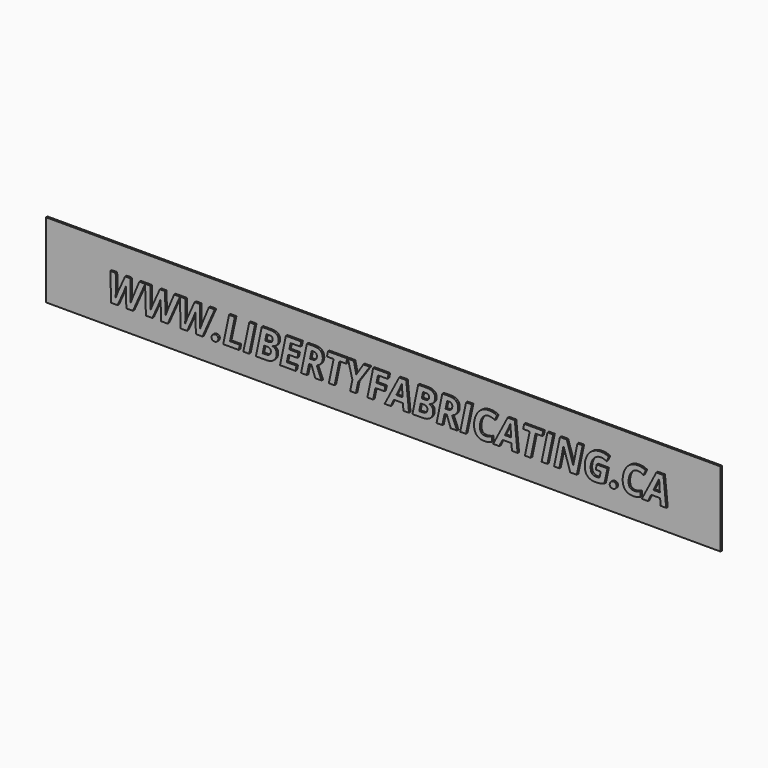
from build123d import *

# Parameters (mm, degrees)
F0_W     = 914.4
F0_H     = 101.6
F1_DEPTH = 2.54
F3_DEPTH = 2.54


with BuildPart() as f1:
    # F0 (on Front) → F1 (new body)
    with BuildSketch(Plane.XZ):
        with Locations((249.6377415955, -34.5557199445)):
            Rectangle(F0_W, F0_H)
    extrude(amount=F1_DEPTH)

    # F2 (on face) → F3 (join)
    with BuildSketch(Plane.XZ.offset(2.54)):
        with BuildLine():
            add(Edge.make_bspline(
                [(-97.2951464553, -29.1986000955), (-98.4817029673, -32.9560290501), (-100.2615377352, -36.8947374717)],
                knots=[0, 0, 0, 1, 1, 1], degree=2))
            Line((-97.2951464553, -29.1986000955), (-97.196266746, -29.1986000955))
            add(Edge.make_bspline(
                [(-97.2951464553, -33.2609081538), (-97.2951464553, -30.994914815), (-97.196266746, -29.1986000955)],
                knots=[0, 0, 0, 1, 1, 1], degree=2))
            Line((-97.2951464553, -33.2609081538), (-97.2457066007, -36.845297617))
            Line((-97.2457066007, -36.845297617), (-96.677148272, -55.4099630437))
            Line((-96.677148272, -55.4099630437), (-87.7697344566, -55.4099630437))
            Line((-87.7697344566, -55.4099630437), (-71.3010742969, -18.1966552943))
            Line((-71.3010742969, -18.1966552943), (-71.3145028289, -17.7615137164))
            Line((-71.3145028289, -17.7615137164), (-79.0683200355, -17.7615137164))
            Line((-79.0683200355, -17.7615137164), (-87.5637350621, -38.2625734508))
            add(Edge.make_bspline(
                [(-90.9338851551, -47.2441470482), (-89.8297284009, -43.9234368099), (-87.5637350621, -38.2625734508)],
                knots=[0, 0, 0, 1, 1, 1], degree=2))
            Line((-90.9338851551, -47.2441470482), (-91.0904446949, -47.2441470482))
            add(Edge.make_bspline(
                [(-90.8597253731, -40.2401676374), (-90.8597253731, -44.0058365677), (-91.0904446949, -47.2441470482)],
                knots=[0, 0, 0, 1, 1, 1], degree=2))
            Line((-90.8597253731, -40.2401676374), (-91.4035637744, -17.7615137164))
            Line((-91.4035637744, -17.7615137164), (-98.3498633549, -17.7615137164))
            Line((-98.3498633549, -17.7615137164), (-107.8505554263, -38.8558517068))
            add(Edge.make_bspline(
                [(-109.3996708725, -42.5968007097), (-108.2378342879, -39.5974495267), (-107.8505554263, -38.8558517068)],
                knots=[0, 0, 0, 1, 1, 1], degree=2))
            add(Edge.make_bspline(
                [(-111.12182581, -47.2441470482), (-110.5615074571, -45.5961518927), (-109.3996708725, -42.5968007097)],
                knots=[0, 0, 0, 1, 1, 1], degree=2))
            Line((-111.12182581, -47.2441470482), (-111.2783853498, -47.2441470482))
            add(Edge.make_bspline(
                [(-111.0188261128, -42.7657202132), (-111.12182581, -45.884551045), (-111.2783853498, -47.2441470482)],
                knots=[0, 0, 0, 1, 1, 1], degree=2))
            add(Edge.make_bspline(
                [(-110.9158264155, -38.3120133054), (-110.9158264155, -39.6468893814), (-111.0188261128, -42.7657202132)],
                knots=[0, 0, 0, 1, 1, 1], degree=2))
            Line((-110.9158264155, -38.3120133054), (-111.0723859553, -17.7615137164))
            Line((-111.0723859553, -17.7615137164), (-118.4636442277, -17.7615137164))
            Line((-118.4636442277, -17.7615137164), (-117.3018076431, -55.4099630437))
            Line((-117.3018076431, -55.4099630437), (-108.6003932221, -55.4099630437))
            Line((-108.6003932221, -55.4099630437), (-100.2615377352, -36.8947374717))
        make_face()
        Polygon((-71.3145028289, -17.7615137164), (-71.3010742969, -18.1966552943), (-71.1085034344, -17.7615137164), align=None)
        with BuildLine():
            Line((-71.1085034344, -17.7615137164), (-71.3010742969, -18.1966552943))
            Line((-71.3010742969, -18.1966552943), (-70.1526662443, -55.4099630437))
            Line((-70.1526662443, -55.4099630437), (-61.4512518232, -55.4099630437))
            Line((-61.4512518232, -55.4099630437), (-53.1123963364, -36.8947374717))
            add(Edge.make_bspline(
                [(-50.1460050565, -29.1986000955), (-51.3325615685, -32.9560290501), (-53.1123963364, -36.8947374717)],
                knots=[0, 0, 0, 1, 1, 1], degree=2))
            Line((-50.1460050565, -29.1986000955), (-50.0471253472, -29.1986000955))
            add(Edge.make_bspline(
                [(-50.1460050565, -33.2609081538), (-50.1460050565, -30.994914815), (-50.0471253472, -29.1986000955)],
                knots=[0, 0, 0, 1, 1, 1], degree=2))
            Line((-50.1460050565, -33.2609081538), (-50.0965652018, -36.845297617))
            Line((-50.0965652018, -36.845297617), (-49.5280068732, -55.4099630437))
            Line((-49.5280068732, -55.4099630437), (-40.6205930577, -55.4099630437))
            Line((-40.6205930577, -55.4099630437), (-24.1519328981, -18.1966552943))
            Line((-24.1519328981, -18.1966552943), (-24.16536143, -17.7615137164))
            Line((-24.16536143, -17.7615137164), (-31.9191786367, -17.7615137164))
            Line((-31.9191786367, -17.7615137164), (-40.4145936633, -38.2625734508))
            add(Edge.make_bspline(
                [(-43.7847437563, -47.2441470482), (-42.6805870021, -43.9234368099), (-40.4145936633, -38.2625734508)],
                knots=[0, 0, 0, 1, 1, 1], degree=2))
            Line((-43.7847437563, -47.2441470482), (-43.941303296, -47.2441470482))
            add(Edge.make_bspline(
                [(-43.7105839743, -40.2401676374), (-43.7105839743, -44.0058365677), (-43.941303296, -47.2441470482)],
                knots=[0, 0, 0, 1, 1, 1], degree=2))
            Line((-43.7105839743, -40.2401676374), (-44.2544223756, -17.7615137164))
            Line((-44.2544223756, -17.7615137164), (-51.200721956, -17.7615137164))
            Line((-51.200721956, -17.7615137164), (-60.7014140275, -38.8558517068))
            add(Edge.make_bspline(
                [(-62.2505294736, -42.5968007097), (-61.088692889, -39.5974495267), (-60.7014140275, -38.8558517068)],
                knots=[0, 0, 0, 1, 1, 1], degree=2))
            add(Edge.make_bspline(
                [(-63.9726844111, -47.2441470482), (-63.4123660583, -45.5961518927), (-62.2505294736, -42.5968007097)],
                knots=[0, 0, 0, 1, 1, 1], degree=2))
            Line((-63.9726844111, -47.2441470482), (-64.1292439509, -47.2441470482))
            add(Edge.make_bspline(
                [(-63.8696847139, -42.7657202132), (-63.9726844111, -45.884551045), (-64.1292439509, -47.2441470482)],
                knots=[0, 0, 0, 1, 1, 1], degree=2))
            add(Edge.make_bspline(
                [(-63.7666850167, -38.3120133054), (-63.7666850167, -39.6468893814), (-63.8696847139, -42.7657202132)],
                knots=[0, 0, 0, 1, 1, 1], degree=2))
            Line((-63.7666850167, -38.3120133054), (-63.9232445565, -17.7615137164))
            Line((-63.9232445565, -17.7615137164), (-71.1085034344, -17.7615137164))
        make_face()
        Polygon((-24.16536143, -17.7615137164), (-24.1519328981, -18.1966552943), (-23.9593620356, -17.7615137164), align=None)
        with BuildLine():
            Line((-23.9593620356, -17.7615137164), (-24.1519328981, -18.1966552943))
            Line((-24.1519328981, -18.1966552943), (-23.0035248454, -55.4099630437))
            Line((-23.0035248454, -55.4099630437), (-14.3021104244, -55.4099630437))
            Line((-14.3021104244, -55.4099630437), (-5.9632549375, -36.8947374717))
            add(Edge.make_bspline(
                [(-2.9968636576, -29.1986000955), (-4.1834201696, -32.9560290501), (-5.9632549375, -36.8947374717)],
                knots=[0, 0, 0, 1, 1, 1], degree=2))
            Line((-2.9968636576, -29.1986000955), (-2.8979839483, -29.1986000955))
            add(Edge.make_bspline(
                [(-2.9968636576, -33.2609081538), (-2.9968636576, -30.994914815), (-2.8979839483, -29.1986000955)],
                knots=[0, 0, 0, 1, 1, 1], degree=2))
            Line((-2.9968636576, -33.2609081538), (-2.947423803, -36.845297617))
            Line((-2.947423803, -36.845297617), (-2.3788654743, -55.4099630437))
            Line((-2.3788654743, -55.4099630437), (6.5285483411, -55.4099630437))
            Line((6.5285483411, -55.4099630437), (23.1897793632, -17.7615137164))
            Line((23.1897793632, -17.7615137164), (15.2299627622, -17.7615137164))
            Line((15.2299627622, -17.7615137164), (6.7345477356, -38.2625734508))
            add(Edge.make_bspline(
                [(3.3643976426, -47.2441470482), (4.4685543968, -43.9234368099), (6.7345477356, -38.2625734508)],
                knots=[0, 0, 0, 1, 1, 1], degree=2))
            Line((3.3643976426, -47.2441470482), (3.2078381028, -47.2441470482))
            add(Edge.make_bspline(
                [(3.4385574246, -40.2401676374), (3.4385574246, -44.0058365677), (3.2078381028, -47.2441470482)],
                knots=[0, 0, 0, 1, 1, 1], degree=2))
            Line((3.4385574246, -40.2401676374), (2.8947190233, -17.7615137164))
            Line((2.8947190233, -17.7615137164), (-4.0515805572, -17.7615137164))
            Line((-4.0515805572, -17.7615137164), (-13.5522726286, -38.8558517068))
            add(Edge.make_bspline(
                [(-15.1013880748, -42.5968007097), (-13.9395514902, -39.5974495267), (-13.5522726286, -38.8558517068)],
                knots=[0, 0, 0, 1, 1, 1], degree=2))
            add(Edge.make_bspline(
                [(-16.8235430123, -47.2441470482), (-16.2632246594, -45.5961518927), (-15.1013880748, -42.5968007097)],
                knots=[0, 0, 0, 1, 1, 1], degree=2))
            Line((-16.8235430123, -47.2441470482), (-16.9801025521, -47.2441470482))
            add(Edge.make_bspline(
                [(-16.7205433151, -42.7657202132), (-16.8235430123, -45.884551045), (-16.9801025521, -47.2441470482)],
                knots=[0, 0, 0, 1, 1, 1], degree=2))
            add(Edge.make_bspline(
                [(-16.6175436178, -38.3120133054), (-16.6175436178, -39.6468893814), (-16.7205433151, -42.7657202132)],
                knots=[0, 0, 0, 1, 1, 1], degree=2))
            Line((-16.6175436178, -38.3120133054), (-16.7741031576, -17.7615137164))
            Line((-16.7741031576, -17.7615137164), (-23.9593620356, -17.7615137164))
        make_face()
        with BuildLine():
            add(Edge.make_bspline(
                [(18.8885120074, -52.4518117396), (18.8885120074, -50.1281385704), (20.2687079501, -48.7397026519)],
                knots=[0, 0, 0, 1, 1, 1], degree=2))
            add(Edge.make_bspline(
                [(19.9432289069, -55.1380438431), (18.8885120074, -54.1739666771), (18.8885120074, -52.4518117396)],
                knots=[0, 0, 0, 1, 1, 1], degree=2))
            add(Edge.make_bspline(
                [(22.8849002595, -56.1021210091), (20.9979458064, -56.1021210091), (19.9432289069, -55.1380438431)],
                knots=[0, 0, 0, 1, 1, 1], degree=2))
            add(Edge.make_bspline(
                [(26.5887693715, -54.7136850906), (25.1756135256, -56.1021210091), (22.8849002595, -56.1021210091)],
                knots=[0, 0, 0, 1, 1, 1], degree=2))
            add(Edge.make_bspline(
                [(28.0019252173, -51.0839757606), (28.0019252173, -53.325249172), (26.5887693715, -54.7136850906)],
                knots=[0, 0, 0, 1, 1, 1], degree=2))
            add(Edge.make_bspline(
                [(26.9472083178, -48.327703863), (28.0019252173, -49.3041409926), (28.0019252173, -51.0839757606)],
                knots=[0, 0, 0, 1, 1, 1], degree=2))
            add(Edge.make_bspline(
                [(24.1456165534, -47.3512667334), (25.8924914183, -47.3512667334), (26.9472083178, -48.327703863)],
                knots=[0, 0, 0, 1, 1, 1], degree=2))
            add(Edge.make_bspline(
                [(20.2687079501, -48.7397026519), (21.6489038929, -47.3512667334), (24.1456165534, -47.3512667334)],
                knots=[0, 0, 0, 1, 1, 1], degree=2))
        make_face()
        Polygon((42.603162295, -17.7615137164), (34.6515856698, -55.4099630437), (55.6882438297, -55.4099630437), (57.0807997361, -48.8179824218), (43.8968384921, -48.8179824218), (50.4888191141, -17.7615137164), align=None)
        Polygon((70.009321731, -17.7615137164), (61.9753453479, -55.4099630437), (69.8280422639, -55.4099630437), (77.862018647, -17.7615137164), align=None)
        with BuildLine():
            add(Edge.make_bspline(
                [(97.8686798347, -17.7615137164), (103.7602625156, -17.7615137164), (106.7719736623, -19.8627075396)],
                knots=[0, 0, 0, 1, 1, 1], degree=2))
            Line((97.8686798347, -17.7615137164), (86.8930320991, -17.7615137164))
            Line((86.8930320991, -17.7615137164), (78.9414554738, -55.4099630437))
            Line((78.9414554738, -55.4099630437), (92.3808559669, -55.4099630437))
            add(Edge.make_bspline(
                [(103.2741039448, -52.21697243), (99.3353955231, -55.4099630437), (92.3808559669, -55.4099630437)],
                knots=[0, 0, 0, 1, 1, 1], degree=2))
            add(Edge.make_bspline(
                [(107.2128123664, -43.1241591595), (107.2128123664, -49.0239818162), (103.2741039448, -52.21697243)],
                knots=[0, 0, 0, 1, 1, 1], degree=2))
            add(Edge.make_bspline(
                [(105.6801768718, -38.4809328089), (107.2128123664, -40.2978474678), (107.2128123664, -43.1241591595)],
                knots=[0, 0, 0, 1, 1, 1], degree=2))
            add(Edge.make_bspline(
                [(101.5766689346, -35.996580112), (104.1475413772, -36.6640181499), (105.6801768718, -38.4809328089)],
                knots=[0, 0, 0, 1, 1, 1], degree=2))
            Line((101.5766689346, -35.996580112), (101.5766689346, -35.8400205722))
            add(Edge.make_bspline(
                [(107.6495310826, -32.5069503702), (105.5153773562, -35.0160229944), (101.5766689346, -35.8400205722)],
                knots=[0, 0, 0, 1, 1, 1], degree=2))
            add(Edge.make_bspline(
                [(109.783684809, -26.1333291063), (109.783684809, -29.9978777459), (107.6495310826, -32.5069503702)],
                knots=[0, 0, 0, 1, 1, 1], degree=2))
            add(Edge.make_bspline(
                [(106.7719736623, -19.8627075396), (109.783684809, -21.9639013629), (109.783684809, -26.1333291063)],
                knots=[0, 0, 0, 1, 1, 1], degree=2))
        make_face()
        with BuildLine():
            Line((92.8175746831, -48.8179824218), (88.1867082962, -48.8179824218))
            Line((88.1867082962, -48.8179824218), (90.2961420952, -39.0041712707))
            Line((90.2961420952, -39.0041712707), (94.5397296206, -39.0041712707))
            add(Edge.make_bspline(
                [(99.2529957653, -43.1818389899), (99.2529957653, -39.0041712707), (94.5397296206, -39.0041712707)],
                knots=[0, 0, 0, 1, 1, 1], degree=2))
            add(Edge.make_bspline(
                [(97.5432007915, -47.3224268181), (99.2529957653, -45.8268712145), (99.2529957653, -43.1818389899)],
                knots=[0, 0, 0, 1, 1, 1], degree=2))
            add(Edge.make_bspline(
                [(92.8175746831, -48.8179824218), (95.8334058177, -48.8179824218), (97.5432007915, -47.3224268181)],
                knots=[0, 0, 0, 1, 1, 1], degree=2))
        make_face(mode=Mode.SUBTRACT)
        with BuildLine():
            Line((95.4461269561, -32.6758698736), (91.6062982438, -32.6758698736))
            Line((91.6062982438, -32.6758698736), (93.3861330118, -24.3040544837))
            Line((93.3861330118, -24.3040544837), (97.3001215061, -24.3040544837))
            add(Edge.make_bspline(
                [(101.6755486439, -27.8307641165), (101.6755486439, -24.3040544837), (97.3001215061, -24.3040544837)],
                knots=[0, 0, 0, 1, 1, 1], degree=2))
            add(Edge.make_bspline(
                [(100.118193222, -31.4233935555), (101.6755486439, -30.1709172373), (101.6755486439, -27.8307641165)],
                knots=[0, 0, 0, 1, 1, 1], degree=2))
            add(Edge.make_bspline(
                [(95.4461269561, -32.6758698736), (98.5608378, -32.6758698736), (100.118193222, -31.4233935555)],
                knots=[0, 0, 0, 1, 1, 1], degree=2))
        make_face(mode=Mode.SUBTRACT)
        Polygon((111.6459193347, -55.4099630437), (132.6825774947, -55.4099630437), (134.0751334011, -48.8179824218), (120.8911721571, -48.8179824218), (122.9511661014, -39.1112909559), (135.2287300099, -39.1112909559), (136.6460058436, -32.5687501885), (124.3602019594, -32.5687501885), (126.0905968727, -24.3040544837), (139.2745581167, -24.3040544837), (140.6671140231, -17.7615137164), (119.59749596, -17.7615137164), align=None)
        with BuildLine():
            Line((148.0830922228, -55.4099630437), (151.148363212, -40.9652855058))
            Line((151.148363212, -40.9652855058), (154.2136342013, -40.9652855058))
            Line((154.2136342013, -40.9652855058), (159.5366585535, -55.4099630437))
            Line((159.5366585535, -55.4099630437), (168.0897534106, -55.4099630437))
            Line((168.0897534106, -55.4099630437), (161.3659331761, -39.4161700596))
            add(Edge.make_bspline(
                [(167.5253150698, -35.0778228128), (165.3870413556, -37.9988942259), (161.3659331761, -39.4161700596)],
                knots=[0, 0, 0, 1, 1, 1], degree=2))
            add(Edge.make_bspline(
                [(169.6635887841, -28.0862033656), (169.6635887841, -32.1567513996), (167.5253150698, -35.0778228128)],
                knots=[0, 0, 0, 1, 1, 1], degree=2))
            add(Edge.make_bspline(
                [(166.5983177948, -20.3900659894), (169.6635887841, -23.0186182624), (169.6635887841, -28.0862033656)],
                knots=[0, 0, 0, 1, 1, 1], degree=2))
            add(Edge.make_bspline(
                [(157.4272247545, -17.7615137164), (163.5330468056, -17.7615137164), (166.5983177948, -20.3900659894)],
                knots=[0, 0, 0, 1, 1, 1], degree=2))
            Line((157.4272247545, -17.7615137164), (148.1819719321, -17.7615137164))
            Line((148.1819719321, -17.7615137164), (140.2303953068, -55.4099630437))
            Line((140.2303953068, -55.4099630437), (148.0830922228, -55.4099630437))
        make_face()
        with BuildLine():
            Line((154.518513305, -34.4721845931), (152.5079592153, -34.4721845931))
            Line((152.5079592153, -34.4721845931), (154.6750728448, -24.3040544837))
            Line((154.6750728448, -24.3040544837), (156.5785072494, -24.3040544837))
            add(Edge.make_bspline(
                [(160.4306959254, -25.3587713832), (159.2070595224, -24.3040544837), (156.5785072494, -24.3040544837)],
                knots=[0, 0, 0, 1, 1, 1], degree=2))
            add(Edge.make_bspline(
                [(161.6543323283, -28.5229220818), (161.6543323283, -26.4134882827), (160.4306959254, -25.3587713832)],
                knots=[0, 0, 0, 1, 1, 1], degree=2))
            add(Edge.make_bspline(
                [(159.7714978632, -33.0054689047), (161.6543323283, -31.5387532163), (161.6543323283, -28.5229220818)],
                knots=[0, 0, 0, 1, 1, 1], degree=2))
            add(Edge.make_bspline(
                [(154.518513305, -34.4721845931), (157.888663398, -34.4721845931), (159.7714978632, -33.0054689047)],
                knots=[0, 0, 0, 1, 1, 1], degree=2))
        make_face(mode=Mode.SUBTRACT)
        Polygon((177.8211648038, -55.4099630437), (185.6738617198, -55.4099630437), (192.2164024871, -24.402934193), (201.3050957697, -24.402934193), (202.7223716034, -17.7615137164), (176.7170080496, -17.7615137164), (175.2997322159, -24.402934193), (184.3637055711, -24.402934193), align=None)
        Polygon((224.7395868809, -17.7615137164), (215.107055197, -33.0054689047), (211.7863449586, -17.7615137164), (203.7523685756, -17.7615137164), (209.8334706994, -41.0147253605), (206.7681997102, -55.4099630437), (214.5714567714, -55.4099630437), (217.6367277607, -41.0147253605), (233.548120987, -17.7615137164), align=None)
        Polygon((230.0708512089, -55.4099630437), (237.9235481249, -55.4099630437), (241.0382589688, -40.5285667896), (253.2169431679, -40.5285667896), (254.658938929, -34.0107459496), (242.4802547298, -34.0107459496), (244.5155287469, -24.3040544837), (257.5923703058, -24.3040544837), (258.9849262122, -17.7615137164), (238.0224278342, -17.7615137164), align=None)
        Polygon((266.1949050175, -46.4448693978), (278.3735892166, -46.4448693978), (278.9915873999, -55.4099630437), (286.6382849214, -55.4099630437), (282.8561360396, -17.6049541766), (273.248324283, -17.6049541766), (253.5300622475, -55.4099630437), (261.770038025, -55.4099630437), align=None)
        with BuildLine():
            Line((277.3188723171, -30.7394755659), (277.9863103551, -39.7540090665))
            Line((277.9863103551, -39.7540090665), (269.4167355465, -39.7540090665))
            Line((269.4167355465, -39.7540090665), (274.2536013279, -29.8413182062))
            add(Edge.make_bspline(
                [(277.063433068, -23.2987774388), (275.9263164107, -26.3887683554), (274.2536013279, -29.8413182062)],
                knots=[0, 0, 0, 1, 1, 1], degree=2))
            Line((277.063433068, -23.2987774388), (277.063433068, -24.2298947017))
            add(Edge.make_bspline(
                [(277.3188723171, -30.7394755659), (277.063433068, -27.3693254729), (277.063433068, -24.2298947017)],
                knots=[0, 0, 0, 1, 1, 1], degree=2))
        make_face(mode=Mode.SUBTRACT)
        with BuildLine():
            add(Edge.make_bspline(
                [(310.1057359358, -17.7615137164), (315.9973186167, -17.7615137164), (319.0090297634, -19.8627075396)],
                knots=[0, 0, 0, 1, 1, 1], degree=2))
            Line((310.1057359358, -17.7615137164), (299.1300882001, -17.7615137164))
            Line((299.1300882001, -17.7615137164), (291.1785115749, -55.4099630437))
            Line((291.1785115749, -55.4099630437), (304.617912068, -55.4099630437))
            add(Edge.make_bspline(
                [(315.5111600458, -52.21697243), (311.5724516242, -55.4099630437), (304.617912068, -55.4099630437)],
                knots=[0, 0, 0, 1, 1, 1], degree=2))
            add(Edge.make_bspline(
                [(319.4498684674, -43.1241591595), (319.4498684674, -49.0239818162), (315.5111600458, -52.21697243)],
                knots=[0, 0, 0, 1, 1, 1], degree=2))
            add(Edge.make_bspline(
                [(317.9172329728, -38.4809328089), (319.4498684674, -40.2978474678), (319.4498684674, -43.1241591595)],
                knots=[0, 0, 0, 1, 1, 1], degree=2))
            add(Edge.make_bspline(
                [(313.8137250356, -35.996580112), (316.3845974782, -36.6640181499), (317.9172329728, -38.4809328089)],
                knots=[0, 0, 0, 1, 1, 1], degree=2))
            Line((313.8137250356, -35.996580112), (313.8137250356, -35.8400205722))
            add(Edge.make_bspline(
                [(319.8865871837, -32.5069503702), (317.7524334573, -35.0160229944), (313.8137250356, -35.8400205722)],
                knots=[0, 0, 0, 1, 1, 1], degree=2))
            add(Edge.make_bspline(
                [(322.02074091, -26.1333291063), (322.02074091, -29.9978777459), (319.8865871837, -32.5069503702)],
                knots=[0, 0, 0, 1, 1, 1], degree=2))
            add(Edge.make_bspline(
                [(319.0090297634, -19.8627075396), (322.02074091, -21.9639013629), (322.02074091, -26.1333291063)],
                knots=[0, 0, 0, 1, 1, 1], degree=2))
        make_face()
        with BuildLine():
            Line((305.0546307842, -48.8179824218), (300.4237643972, -48.8179824218))
            Line((300.4237643972, -48.8179824218), (302.5331981962, -39.0041712707))
            Line((302.5331981962, -39.0041712707), (306.7767857217, -39.0041712707))
            add(Edge.make_bspline(
                [(311.4900518664, -43.1818389899), (311.4900518664, -39.0041712707), (306.7767857217, -39.0041712707)],
                knots=[0, 0, 0, 1, 1, 1], degree=2))
            add(Edge.make_bspline(
                [(309.7802568926, -47.3224268181), (311.4900518664, -45.8268712145), (311.4900518664, -43.1818389899)],
                knots=[0, 0, 0, 1, 1, 1], degree=2))
            add(Edge.make_bspline(
                [(305.0546307842, -48.8179824218), (308.0704619187, -48.8179824218), (309.7802568926, -47.3224268181)],
                knots=[0, 0, 0, 1, 1, 1], degree=2))
        make_face(mode=Mode.SUBTRACT)
        with BuildLine():
            Line((307.6831830572, -32.6758698736), (303.8433543449, -32.6758698736))
            Line((303.8433543449, -32.6758698736), (305.6231891128, -24.3040544837))
            Line((305.6231891128, -24.3040544837), (309.5371776071, -24.3040544837))
            add(Edge.make_bspline(
                [(313.912604745, -27.8307641165), (313.912604745, -24.3040544837), (309.5371776071, -24.3040544837)],
                knots=[0, 0, 0, 1, 1, 1], degree=2))
            add(Edge.make_bspline(
                [(312.355249323, -31.4233935555), (313.912604745, -30.1709172373), (313.912604745, -27.8307641165)],
                knots=[0, 0, 0, 1, 1, 1], degree=2))
            add(Edge.make_bspline(
                [(307.6831830572, -32.6758698736), (310.7978939011, -32.6758698736), (312.355249323, -31.4233935555)],
                knots=[0, 0, 0, 1, 1, 1], degree=2))
        make_face(mode=Mode.SUBTRACT)
        with BuildLine():
            Line((331.7356723517, -55.4099630437), (334.8009433409, -40.9652855058))
            Line((334.8009433409, -40.9652855058), (337.8662143302, -40.9652855058))
            Line((337.8662143302, -40.9652855058), (343.1892386824, -55.4099630437))
            Line((343.1892386824, -55.4099630437), (351.7423335395, -55.4099630437))
            Line((351.7423335395, -55.4099630437), (345.018513305, -39.4161700596))
            add(Edge.make_bspline(
                [(351.1778951987, -35.0778228128), (349.0396214844, -37.9988942259), (345.018513305, -39.4161700596)],
                knots=[0, 0, 0, 1, 1, 1], degree=2))
            add(Edge.make_bspline(
                [(353.316168913, -28.0862033656), (353.316168913, -32.1567513996), (351.1778951987, -35.0778228128)],
                knots=[0, 0, 0, 1, 1, 1], degree=2))
            add(Edge.make_bspline(
                [(350.2508979237, -20.3900659894), (353.316168913, -23.0186182624), (353.316168913, -28.0862033656)],
                knots=[0, 0, 0, 1, 1, 1], degree=2))
            add(Edge.make_bspline(
                [(341.0798048834, -17.7615137164), (347.1856269345, -17.7615137164), (350.2508979237, -20.3900659894)],
                knots=[0, 0, 0, 1, 1, 1], degree=2))
            Line((341.0798048834, -17.7615137164), (331.834552061, -17.7615137164))
            Line((331.834552061, -17.7615137164), (323.8829754357, -55.4099630437))
            Line((323.8829754357, -55.4099630437), (331.7356723517, -55.4099630437))
        make_face()
        with BuildLine():
            Line((338.1710934339, -34.4721845931), (336.1605393442, -34.4721845931))
            Line((336.1605393442, -34.4721845931), (338.3276529737, -24.3040544837))
            Line((338.3276529737, -24.3040544837), (340.2310873783, -24.3040544837))
            add(Edge.make_bspline(
                [(344.0832760543, -25.3587713832), (342.8596396513, -24.3040544837), (340.2310873783, -24.3040544837)],
                knots=[0, 0, 0, 1, 1, 1], degree=2))
            add(Edge.make_bspline(
                [(345.3069124572, -28.5229220818), (345.3069124572, -26.4134882827), (344.0832760543, -25.3587713832)],
                knots=[0, 0, 0, 1, 1, 1], degree=2))
            add(Edge.make_bspline(
                [(343.4240779921, -33.0054689047), (345.3069124572, -31.5387532163), (345.3069124572, -28.5229220818)],
                knots=[0, 0, 0, 1, 1, 1], degree=2))
            add(Edge.make_bspline(
                [(338.1710934339, -34.4721845931), (341.5412435269, -34.4721845931), (343.4240779921, -33.0054689047)],
                knots=[0, 0, 0, 1, 1, 1], degree=2))
        make_face(mode=Mode.SUBTRACT)
        Polygon((364.0281374237, -17.7615137164), (355.9941610407, -55.4099630437), (363.8468579566, -55.4099630437), (371.8808343397, -17.7615137164), align=None)
        with BuildLine():
            add(Edge.make_bspline(
                [(394.8950866862, -23.8178959128), (391.5002166659, -23.8178959128), (388.7810246593, -25.9026097845)],
                knots=[0, 0, 0, 1, 1, 1], degree=2))
            add(Edge.make_bspline(
                [(398.4259163069, -24.3040544837), (396.6502015268, -23.8178959128), (394.8950866862, -23.8178959128)],
                knots=[0, 0, 0, 1, 1, 1], degree=2))
            add(Edge.make_bspline(
                [(402.9290630693, -26.3146085734), (400.2016310869, -24.7902130546), (398.4259163069, -24.3040544837)],
                knots=[0, 0, 0, 1, 1, 1], degree=2))
            Line((402.9290630693, -26.3146085734), (405.9696141312, -19.8709475154))
            add(Edge.make_bspline(
                [(400.6136298758, -17.7491537527), (403.1103425364, -18.330072045), (405.9696141312, -19.8709475154)],
                knots=[0, 0, 0, 1, 1, 1], degree=2))
            add(Edge.make_bspline(
                [(394.8950866862, -17.1682354604), (398.1169172152, -17.1682354604), (400.6136298758, -17.7491537527)],
                knots=[0, 0, 0, 1, 1, 1], degree=2))
            add(Edge.make_bspline(
                [(384.5951169644, -20.1181467887), (389.0776637873, -17.1682354604), (394.8950866862, -17.1682354604)],
                knots=[0, 0, 0, 1, 1, 1], degree=2))
            add(Edge.make_bspline(
                [(377.4345780137, -28.7454014278), (380.1125701414, -23.0680581171), (384.5951169644, -20.1181467887)],
                knots=[0, 0, 0, 1, 1, 1], degree=2))
            add(Edge.make_bspline(
                [(374.756585886, -41.1712849002), (374.756585886, -34.4227447385), (377.4345780137, -28.7454014278)],
                knots=[0, 0, 0, 1, 1, 1], degree=2))
            add(Edge.make_bspline(
                [(378.3904152039, -52.0768928418), (374.756585886, -48.2247041658), (374.756585886, -41.1712849002)],
                knots=[0, 0, 0, 1, 1, 1], degree=2))
            add(Edge.make_bspline(
                [(388.5585453133, -55.9290815177), (382.0242445218, -55.9290815177), (378.3904152039, -52.0768928418)],
                knots=[0, 0, 0, 1, 1, 1], degree=2))
            add(Edge.make_bspline(
                [(398.8585150352, -53.9432473554), (393.7414900774, -55.9290815177), (388.5585453133, -55.9290815177)],
                knots=[0, 0, 0, 1, 1, 1], degree=2))
            Line((398.8585150352, -53.9432473554), (398.8585150352, -47.2441470482))
            add(Edge.make_bspline(
                [(390.1571006142, -49.2299812106), (393.9145295687, -49.2299812106), (398.8585150352, -47.2441470482)],
                knots=[0, 0, 0, 1, 1, 1], degree=2))
            add(Edge.make_bspline(
                [(384.5291971581, -47.1452673389), (386.2925519745, -49.2299812106), (390.1571006142, -49.2299812106)],
                knots=[0, 0, 0, 1, 1, 1], degree=2))
            add(Edge.make_bspline(
                [(382.7658423418, -40.7592861114), (382.7658423418, -45.0605534672), (384.5291971581, -47.1452673389)],
                knots=[0, 0, 0, 1, 1, 1], degree=2))
            add(Edge.make_bspline(
                [(384.4138374973, -32.0413917388), (382.7658423418, -36.0954598213), (382.7658423418, -40.7592861114)],
                knots=[0, 0, 0, 1, 1, 1], degree=2))
            add(Edge.make_bspline(
                [(388.7810246593, -25.9026097845), (386.0618326528, -27.9873236562), (384.4138374973, -32.0413917388)],
                knots=[0, 0, 0, 1, 1, 1], degree=2))
        make_face()
        Polygon((413.3608724036, -46.4448693978), (425.5395566027, -46.4448693978), (426.1575547861, -55.4099630437), (433.8042523076, -55.4099630437), (430.0221034257, -17.6049541766), (420.4142916691, -17.6049541766), (400.6960296336, -55.4099630437), (408.9360054111, -55.4099630437), align=None)
        with BuildLine():
            Line((424.4848397032, -30.7394755659), (425.1522777412, -39.7540090665))
            Line((425.1522777412, -39.7540090665), (416.5827029326, -39.7540090665))
            Line((416.5827029326, -39.7540090665), (421.419568714, -29.8413182062))
            add(Edge.make_bspline(
                [(424.2294004541, -23.2987774388), (423.0922837968, -26.3887683554), (421.419568714, -29.8413182062)],
                knots=[0, 0, 0, 1, 1, 1], degree=2))
            Line((424.2294004541, -23.2987774388), (424.2294004541, -24.2298947017))
            add(Edge.make_bspline(
                [(424.4848397032, -30.7394755659), (424.2294004541, -27.3693254729), (424.2294004541, -24.2298947017)],
                knots=[0, 0, 0, 1, 1, 1], degree=2))
        make_face(mode=Mode.SUBTRACT)
        Polygon((443.824062853, -55.4099630437), (451.676759769, -55.4099630437), (458.2193005363, -24.402934193), (467.3079938189, -24.402934193), (468.7252696526, -17.7615137164), (442.7199060988, -17.7615137164), (441.3026302651, -24.402934193), (450.3666036204, -24.402934193), align=None)
        Polygon((474.3696530602, -17.7615137164), (466.3356766771, -55.4099630437), (474.1883735931, -55.4099630437), (482.2223499762, -17.7615137164), align=None)
        with BuildLine():
            Line((505.2366023227, -55.4099630437), (514.0451364289, -55.4099630437))
            Line((514.0451364289, -55.4099630437), (522.0049530299, -17.7615137164))
            Line((522.0049530299, -17.7615137164), (514.9432937886, -17.7615137164))
            add(Edge.make_bspline(
                [(510.3083074138, -39.9064486184), (511.004585367, -36.2767392884), (514.9432937886, -17.7615137164)],
                knots=[0, 0, 0, 1, 1, 1], degree=2))
            add(Edge.make_bspline(
                [(509.3071503568, -45.4972721834), (509.6120294606, -43.5361579484), (510.3083074138, -39.9064486184)],
                knots=[0, 0, 0, 1, 1, 1], degree=2))
            Line((509.3071503568, -45.4972721834), (509.2000306717, -45.4972721834))
            Line((509.2000306717, -45.4972721834), (500.449176396, -17.7615137164))
            Line((500.449176396, -17.7615137164), (491.2533634283, -17.7615137164))
            Line((491.2533634283, -17.7615137164), (483.301786803, -55.4099630437))
            Line((483.301786803, -55.4099630437), (490.3799259959, -55.4099630437))
            Line((490.3799259959, -55.4099630437), (494.1126350231, -37.6940151221))
            add(Edge.make_bspline(
                [(495.8100700333, -27.7566043345), (494.9860724555, -33.3185879843), (494.1126350231, -37.6940151221)],
                knots=[0, 0, 0, 1, 1, 1], degree=2))
            Line((495.8100700333, -27.7566043345), (495.9171897184, -26.9326067567))
            Line((495.9171897184, -26.9326067567), (496.0737492581, -26.9326067567))
            Line((496.0737492581, -26.9326067567), (505.2366023227, -55.4099630437))
        make_face()
        with BuildLine():
            Line((555.6570141052, -34.2661851987), (541.1546567368, -34.2661851987))
            Line((541.1546567368, -34.2661851987), (539.7126609758, -40.9158456511))
            Line((539.7126609758, -40.9158456511), (546.59304075, -40.9158456511))
            Line((546.59304075, -40.9158456511), (544.887365764, -48.6119830273))
            add(Edge.make_bspline(
                [(540.5119386262, -49.2299812106), (542.4730528612, -49.2299812106), (544.887365764, -48.6119830273)],
                knots=[0, 0, 0, 1, 1, 1], degree=2))
            add(Edge.make_bspline(
                [(534.7810354729, -47.1576273026), (536.6473899865, -49.2299812106), (540.5119386262, -49.2299812106)],
                knots=[0, 0, 0, 1, 1, 1], degree=2))
            add(Edge.make_bspline(
                [(532.9146809593, -40.6521664262), (532.9146809593, -45.0852733945), (534.7810354729, -47.1576273026)],
                knots=[0, 0, 0, 1, 1, 1], degree=2))
            add(Edge.make_bspline(
                [(534.6780357757, -32.144391436), (532.9146809593, -36.0954598213), (532.9146809593, -40.6521664262)],
                knots=[0, 0, 0, 1, 1, 1], degree=2))
            add(Edge.make_bspline(
                [(539.5478614602, -26.0550493364), (536.4413905921, -28.1933230507), (534.6780357757, -32.144391436)],
                knots=[0, 0, 0, 1, 1, 1], degree=2))
            add(Edge.make_bspline(
                [(546.59304075, -23.9167756221), (542.6543323283, -23.9167756221), (539.5478614602, -26.0550493364)],
                knots=[0, 0, 0, 1, 1, 1], degree=2))
            add(Edge.make_bspline(
                [(550.7377485661, -24.5347738055), (548.8343141615, -23.9167756221), (546.59304075, -23.9167756221)],
                knots=[0, 0, 0, 1, 1, 1], degree=2))
            add(Edge.make_bspline(
                [(554.5446173753, -26.182768961), (552.6411829707, -25.1527719888), (550.7377485661, -24.5347738055)],
                knots=[0, 0, 0, 1, 1, 1], degree=2))
            Line((554.5446173753, -26.182768961), (557.5110086552, -19.7226279514))
            add(Edge.make_bspline(
                [(546.9473597084, -17.1682354604), (552.5670231887, -17.1682354604), (557.5110086552, -19.7226279514)],
                knots=[0, 0, 0, 1, 1, 1], degree=2))
            add(Edge.make_bspline(
                [(535.4155136078, -20.1964265586), (540.4130589169, -17.1682354604), (546.9473597084, -17.1682354604)],
                knots=[0, 0, 0, 1, 1, 1], degree=2))
            add(Edge.make_bspline(
                [(527.6616964012, -28.7989612703), (530.4179682988, -23.2246176568), (535.4155136078, -20.1964265586)],
                knots=[0, 0, 0, 1, 1, 1], degree=2))
            add(Edge.make_bspline(
                [(524.9054245036, -41.2701646096), (524.9054245036, -34.3733048838), (527.6616964012, -28.7989612703)],
                knots=[0, 0, 0, 1, 1, 1], degree=2))
            add(Edge.make_bspline(
                [(528.5392538215, -52.142812648), (524.9054245036, -48.3565437782), (524.9054245036, -41.2701646096)],
                knots=[0, 0, 0, 1, 1, 1], degree=2))
            add(Edge.make_bspline(
                [(538.8392235434, -55.9290815177), (532.1730831394, -55.9290815177), (528.5392538215, -52.142812648)],
                knots=[0, 0, 0, 1, 1, 1], degree=2))
            add(Edge.make_bspline(
                [(545.0851251827, -55.5006027773), (542.1352138544, -55.9290815177), (538.8392235434, -55.9290815177)],
                knots=[0, 0, 0, 1, 1, 1], degree=2))
            add(Edge.make_bspline(
                [(551.479346386, -53.8938075007), (548.035036511, -55.0721240369), (545.0851251827, -55.5006027773)],
                knots=[0, 0, 0, 1, 1, 1], degree=2))
            Line((551.479346386, -53.8938075007), (555.6570141052, -34.2661851987))
        make_face()
        with BuildLine():
            add(Edge.make_bspline(
                [(558.7717249491, -52.4518117396), (558.7717249491, -50.1281385704), (560.1519208919, -48.7397026519)],
                knots=[0, 0, 0, 1, 1, 1], degree=2))
            add(Edge.make_bspline(
                [(559.8264418487, -55.1380438431), (558.7717249491, -54.1739666771), (558.7717249491, -52.4518117396)],
                knots=[0, 0, 0, 1, 1, 1], degree=2))
            add(Edge.make_bspline(
                [(562.7681132012, -56.1021210091), (560.8811587482, -56.1021210091), (559.8264418487, -55.1380438431)],
                knots=[0, 0, 0, 1, 1, 1], degree=2))
            add(Edge.make_bspline(
                [(566.4719823132, -54.7136850906), (565.0588264674, -56.1021210091), (562.7681132012, -56.1021210091)],
                knots=[0, 0, 0, 1, 1, 1], degree=2))
            add(Edge.make_bspline(
                [(567.885138159, -51.0839757606), (567.885138159, -53.325249172), (566.4719823132, -54.7136850906)],
                knots=[0, 0, 0, 1, 1, 1], degree=2))
            add(Edge.make_bspline(
                [(566.8304212595, -48.327703863), (567.885138159, -49.3041409926), (567.885138159, -51.0839757606)],
                knots=[0, 0, 0, 1, 1, 1], degree=2))
            add(Edge.make_bspline(
                [(564.0288294952, -47.3512667334), (565.77570436, -47.3512667334), (566.8304212595, -48.327703863)],
                knots=[0, 0, 0, 1, 1, 1], degree=2))
            add(Edge.make_bspline(
                [(560.1519208919, -48.7397026519), (561.5321168346, -47.3512667334), (564.0288294952, -47.3512667334)],
                knots=[0, 0, 0, 1, 1, 1], degree=2))
        make_face()
        with BuildLine():
            add(Edge.make_bspline(
                [(596.4696141312, -23.8178959128), (593.0747441109, -23.8178959128), (590.3555521043, -25.9026097845)],
                knots=[0, 0, 0, 1, 1, 1], degree=2))
            add(Edge.make_bspline(
                [(600.0004437518, -24.3040544837), (598.2247289718, -23.8178959128), (596.4696141312, -23.8178959128)],
                knots=[0, 0, 0, 1, 1, 1], degree=2))
            add(Edge.make_bspline(
                [(604.5035905143, -26.3146085734), (601.7761585319, -24.7902130546), (600.0004437518, -24.3040544837)],
                knots=[0, 0, 0, 1, 1, 1], degree=2))
            Line((604.5035905143, -26.3146085734), (607.5441415761, -19.8709475154))
            add(Edge.make_bspline(
                [(602.1881573208, -17.7491537527), (604.6848699814, -18.330072045), (607.5441415761, -19.8709475154)],
                knots=[0, 0, 0, 1, 1, 1], degree=2))
            add(Edge.make_bspline(
                [(596.4696141312, -17.1682354604), (599.6914446602, -17.1682354604), (602.1881573208, -17.7491537527)],
                knots=[0, 0, 0, 1, 1, 1], degree=2))
            add(Edge.make_bspline(
                [(586.1696444093, -20.1181467887), (590.6521912323, -17.1682354604), (596.4696141312, -17.1682354604)],
                knots=[0, 0, 0, 1, 1, 1], degree=2))
            add(Edge.make_bspline(
                [(579.0091054587, -28.7454014278), (581.6870975864, -23.0680581171), (586.1696444093, -20.1181467887)],
                knots=[0, 0, 0, 1, 1, 1], degree=2))
            add(Edge.make_bspline(
                [(576.331113331, -41.1712849002), (576.331113331, -34.4227447385), (579.0091054587, -28.7454014278)],
                knots=[0, 0, 0, 1, 1, 1], degree=2))
            add(Edge.make_bspline(
                [(579.9649426489, -52.0768928418), (576.331113331, -48.2247041658), (576.331113331, -41.1712849002)],
                knots=[0, 0, 0, 1, 1, 1], degree=2))
            add(Edge.make_bspline(
                [(590.1330727583, -55.9290815177), (583.5987719667, -55.9290815177), (579.9649426489, -52.0768928418)],
                knots=[0, 0, 0, 1, 1, 1], degree=2))
            add(Edge.make_bspline(
                [(600.4330424802, -53.9432473554), (595.3160175223, -55.9290815177), (590.1330727583, -55.9290815177)],
                knots=[0, 0, 0, 1, 1, 1], degree=2))
            Line((600.4330424802, -53.9432473554), (600.4330424802, -47.2441470482))
            add(Edge.make_bspline(
                [(591.7316280591, -49.2299812106), (595.4890570137, -49.2299812106), (600.4330424802, -47.2441470482)],
                knots=[0, 0, 0, 1, 1, 1], degree=2))
            add(Edge.make_bspline(
                [(586.1037246031, -47.1452673389), (587.8670794195, -49.2299812106), (591.7316280591, -49.2299812106)],
                knots=[0, 0, 0, 1, 1, 1], degree=2))
            add(Edge.make_bspline(
                [(584.3403697867, -40.7592861114), (584.3403697867, -45.0605534672), (586.1037246031, -47.1452673389)],
                knots=[0, 0, 0, 1, 1, 1], degree=2))
            add(Edge.make_bspline(
                [(585.9883649422, -32.0413917388), (584.3403697867, -36.0954598213), (584.3403697867, -40.7592861114)],
                knots=[0, 0, 0, 1, 1, 1], degree=2))
            add(Edge.make_bspline(
                [(590.3555521043, -25.9026097845), (587.6363600977, -27.9873236562), (585.9883649422, -32.0413917388)],
                knots=[0, 0, 0, 1, 1, 1], degree=2))
        make_face()
        Polygon((614.9353998486, -46.4448693978), (627.1140840477, -46.4448693978), (627.732082231, -55.4099630437), (635.3787797525, -55.4099630437), (631.5966308707, -17.6049541766), (621.9888191141, -17.6049541766), (602.2705570785, -55.4099630437), (610.510532856, -55.4099630437), align=None)
        with BuildLine():
            Line((626.0593671482, -30.7394755659), (626.7268051862, -39.7540090665))
            Line((626.7268051862, -39.7540090665), (618.1572303776, -39.7540090665))
            Line((618.1572303776, -39.7540090665), (622.994096159, -29.8413182062))
            add(Edge.make_bspline(
                [(625.8039278991, -23.2987774388), (624.6668112418, -26.3887683554), (622.994096159, -29.8413182062)],
                knots=[0, 0, 0, 1, 1, 1], degree=2))
            Line((625.8039278991, -23.2987774388), (625.8039278991, -24.2298947017))
            add(Edge.make_bspline(
                [(626.0593671482, -30.7394755659), (625.8039278991, -27.3693254729), (625.8039278991, -24.2298947017)],
                knots=[0, 0, 0, 1, 1, 1], degree=2))
        make_face(mode=Mode.SUBTRACT)
    extrude(amount=F3_DEPTH)


solid = f1.part
